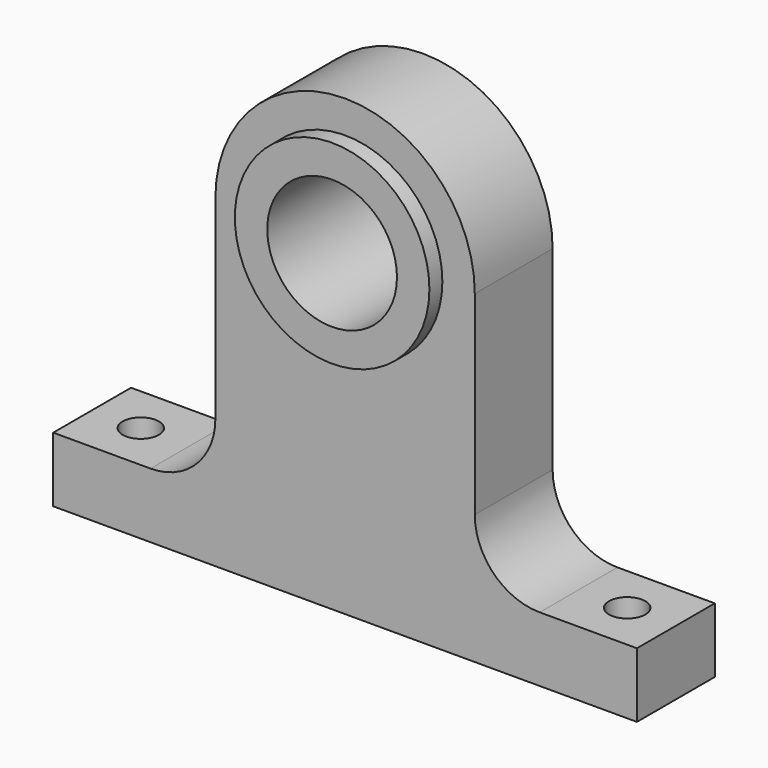
from build123d import *

# Parameters (mm, degrees)
F0_R     = 9.525
F1_DEPTH = 4.7625
F3_D     = 3.556
F4_R     = 9.525
F4_R_2   = 6.35
F5_DEPTH = 6.35


with BuildPart() as f1:
    # F0 (on Front) → F1 (new body, symmetric)
    with BuildSketch(Plane.XZ):
        with BuildLine():
            ThreePointArc((12.7, 0), (0, 12.7), (-12.7, 0))
            Line((-12.7, 0), (-12.7, -19.05))
            ThreePointArc((-12.7, -19.05), (-14.5598719395, -23.5401280605), (-19.05, -25.4))
            Line((-19.05, -25.4), (-28.575, -25.4))
            Line((-28.575, -25.4), (-28.575, -31.75))
            Line((-28.575, -31.75), (28.575, -31.75))
            Line((28.575, -31.75), (28.575, -25.4))
            Line((28.575, -25.4), (19.05, -25.4))
            ThreePointArc((19.05, -25.4), (14.5598719395, -23.5401280605), (12.7, -19.05))
            Line((12.7, -19.05), (12.7, 0))
        make_face()
        Circle(F0_R, mode=Mode.SUBTRACT)
    extrude(amount=F1_DEPTH, both=True)

    # F3 (through all)
    with Locations(Plane(origin=(0, 0, -31.75), x_dir=(1, 0, 0), z_dir=(0, 0, -1))):
        with Locations((-23.8125, 0), (23.8125, 0)):
            Hole(F3_D / 2)


with BuildPart() as f5:
    # F4 (on Front) → F5 (new body, symmetric)
    with BuildSketch(Plane.XZ):
        Circle(F4_R)
        Circle(F4_R_2, mode=Mode.SUBTRACT)
    extrude(amount=F5_DEPTH, both=True)


solid = Compound([f1.part, f5.part])
